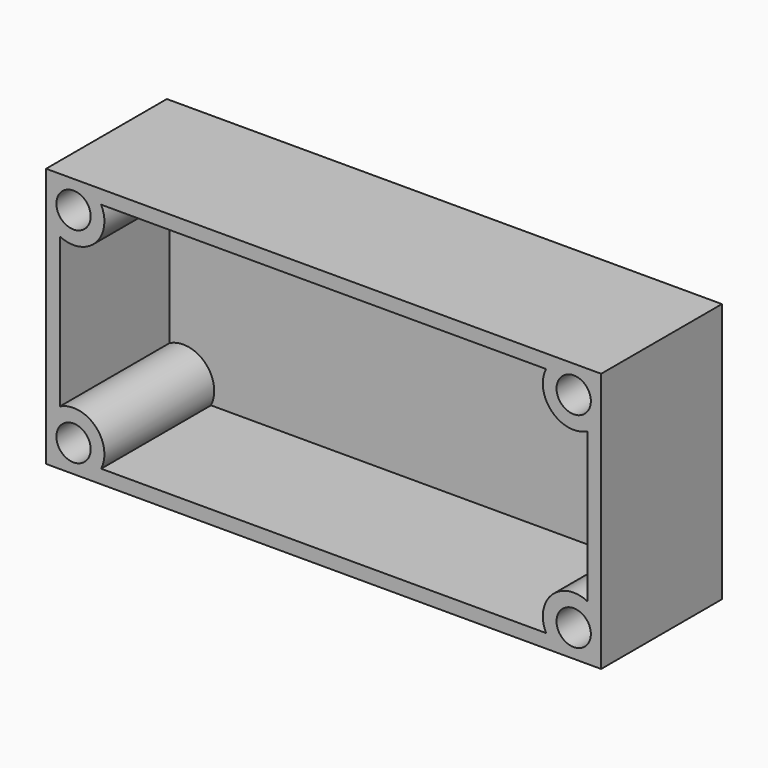
from build123d import *

# Parameters (mm, degrees)
F0_W     = 80.8908492327
F0_H     = 37.8762930632
F1_DEPTH = 22
F3_D     = 5
F3_DEPTH = 28
F3_TIP   = 1.5021515476
F4_T     = -2
F6_D     = 5.5
F6_DEPTH = 2
F6_TIP   = 1.6523667023


with BuildPart() as f1:
    # F0 (on Front) → F1 (new body)
    with BuildSketch(Plane.XZ):
        with Locations((40.4454246163, 18.9381465316)):
            Rectangle(F0_W, F0_H)
    extrude(amount=F1_DEPTH)

    # F3
    with Locations(Plane.XZ.offset(22)):
        with Locations((4, 33.8762930632), (4, 4), (76.8908492327, 4), (76.8908492327, 33.8762930632)):
            Hole(F3_D / 2, depth=F3_DEPTH)
            with Locations((0, 0, -(F3_DEPTH + F3_TIP / 2))):  # 118° drill point
                Cone(0, F3_D / 2, F3_TIP, mode=Mode.SUBTRACT)

    # F4
    f4_openings = [f1.faces().sort_by_distance(p)[0] for p in [
        (40.445425, -22, 18.938147),
    ]]
    offset(amount=F4_T, openings=f4_openings)

    # F6
    with Locations(Plane(origin=(0, 0, 0), x_dir=(-1, 0, 0), z_dir=(0, 1, 0))):
        with Locations((-76.8908492327, 33.8762930632), (-76.8908492327, 4), (-4, 4), (-4, 32.8762930632)):
            Hole(F6_D / 2, depth=F6_DEPTH)
            with Locations((0, 0, -(F6_DEPTH + F6_TIP / 2))):  # 118° drill point
                Cone(0, F6_D / 2, F6_TIP, mode=Mode.SUBTRACT)


solid = f1.part
